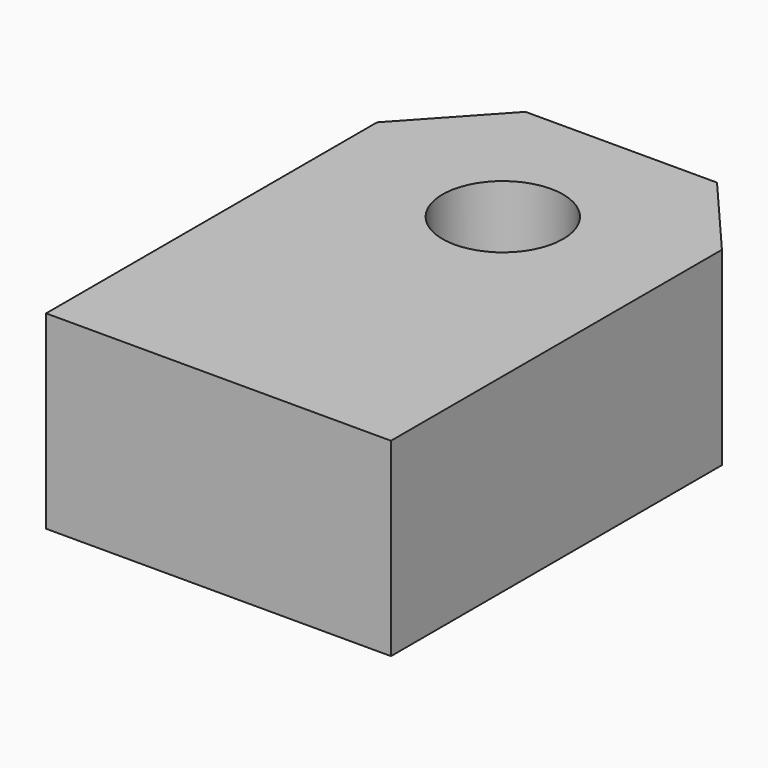
from build123d import *

# Parameters (mm, degrees)
F0_R     = 6.9977
F1_DEPTH = 21.9964


with BuildPart() as f1:
    # F0 (on Top) → F1 (new body)
    with BuildSketch(Plane.XY):
        Polygon((-20.462327, 0), (0, 0), (19.542673, 0), (19.542673, 47.9806), (10.967978, 57.9882), (-11.249209, 57.9882), (-20.462327, 47.9806), align=None)
        with Locations((0, 40.637765)):
            Circle(F0_R, mode=Mode.SUBTRACT)
    extrude(amount=F1_DEPTH)


solid = f1.part
